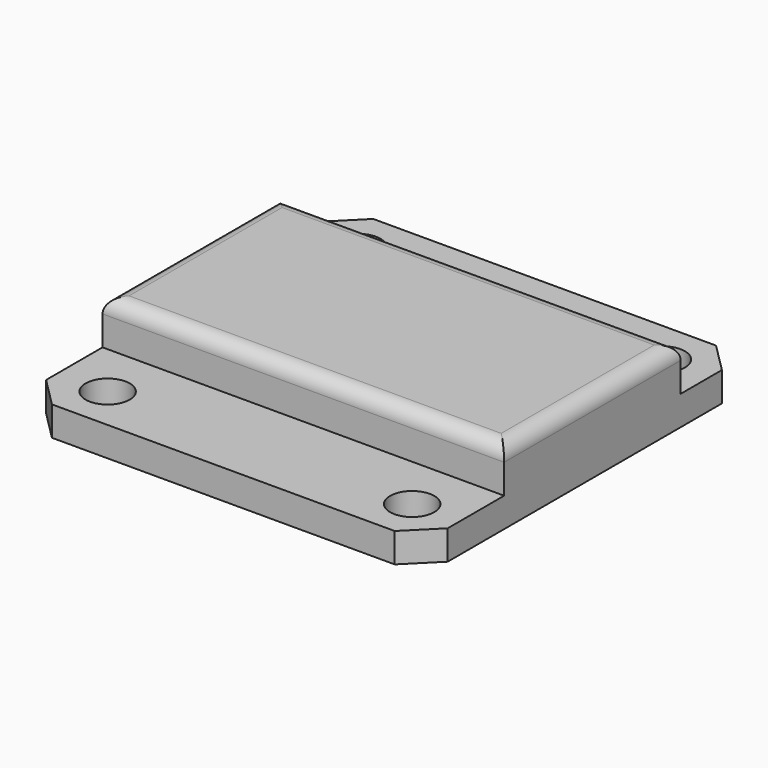
from build123d import *

# Parameters (mm, degrees)
F0_W     = 27.3
F0_H     = 27.3
F0_R     = 1.5
F1_DEPTH = 2
F2_SIZE  = 2
F3_W     = 27.3
F3_H     = 15
F4_DEPTH = 3
F5_R     = 1


with BuildPart() as f1:
    # F0 (on Top) → F1 (new body)
    with BuildSketch(Plane.XY):
        with Locations((-0.626242, 1.435703)):
            Rectangle(F0_W, F0_H)
        with Locations((-10.890681, -9.214297)):
            Circle(F0_R, mode=Mode.SUBTRACT)
        with Locations((9.809319, -9.214297)):
            Circle(F0_R, mode=Mode.SUBTRACT)
        with Locations((-10.890681, 12.085703)):
            Circle(F0_R, mode=Mode.SUBTRACT)
        with Locations((9.809319, 12.085703)):
            Circle(F0_R, mode=Mode.SUBTRACT)
    extrude(amount=F1_DEPTH)

    # F2
    f2_edges = [f1.edges().sort_by_distance(p)[0] for p in [
        (13.023758, 15.085703, 1),
        (13.023758, -12.214297, 1),
        (-14.276242, -12.214297, 1),
        (-14.276242, 15.085703, 1),
    ]]
    chamfer(f2_edges, length=F2_SIZE)

    # F3 (on face) → F4 (join)
    with BuildSketch(Plane.XY.offset(2)):
        with Locations((-0.626242, 2.082483)):
            Rectangle(F3_W, F3_H)
    extrude(amount=F4_DEPTH)

    # F5
    f5_edges = [f1.edges().sort_by_distance(p)[0] for p in [
        (-0.626242, 9.582483, 5),
        (-0.626242, -5.417517, 5),
        (-14.276242, 2.082483, 5),
        (13.023758, 2.082483, 5),
    ]]
    fillet(f5_edges, radius=F5_R)


solid = f1.part
